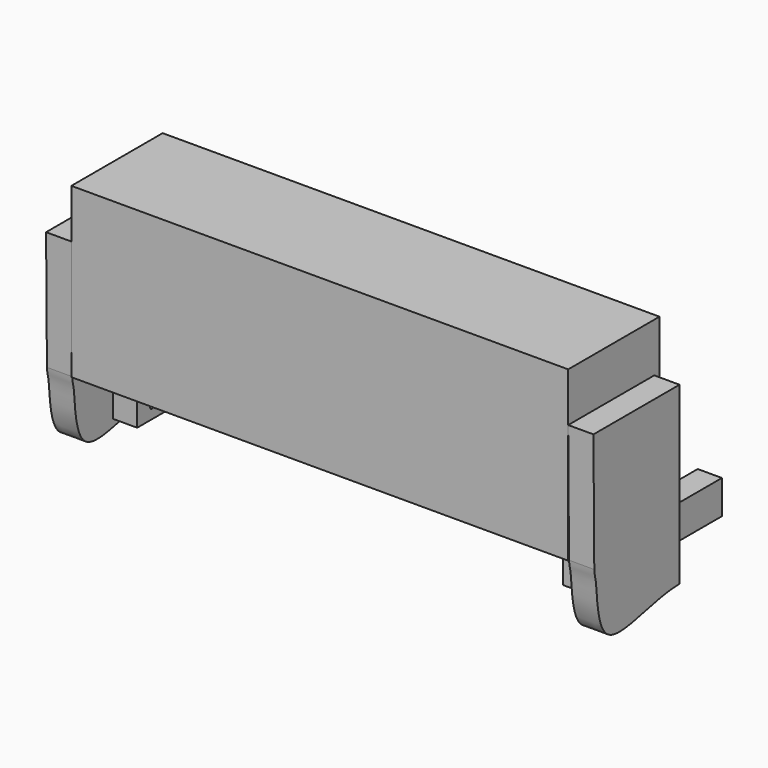
from build123d import *

# Parameters (mm, degrees)
F0_W      = 73.025
F0_H      = 101.6
F1_DEPTH  = 508
F2_R      = 7.62
F3_DEPTH  = 101.601
F4_R      = 7.62
F5_DEPTH  = 1430.3385
F8_DEPTH  = 1498.6
F10_DEPTH = 76.2


with BuildPart() as f1:
    # F0 (on Front) → F1 (new body)
    with BuildSketch(Plane.XZ):
        with Locations((-678.65625, 50.8)):
            Rectangle(F0_W, F0_H)
    extrude(amount=-F1_DEPTH)


with BuildPart() as f1b:
    # F0 (on Front) → F1, piece 2 (new body)
    with BuildSketch(Plane.XZ):
        with Locations((678.65625, 50.8)):
            Rectangle(F0_W, F0_H)
    extrude(amount=-F1_DEPTH)


with BuildPart() as f3_tool:
    # F2 (on face) → F3 (new body, through all)
    with BuildSketch(Plane(origin=(0, 0, 0), x_dir=(1, 0, 0), z_dir=(0, 0, -1))):
        with Locations((-678.65625, -25.4)):
            Circle(F2_R)
        with Locations((-678.65625, -114.3)):
            Circle(F2_R)
        with Locations((-678.65625, -203.2)):
            Circle(F2_R)
        with Locations((678.65625, -25.4)):
            Circle(F2_R)
        with Locations((678.65625, -114.3)):
            Circle(F2_R)
        with Locations((678.65625, -203.2)):
            Circle(F2_R)
    extrude(amount=-F3_DEPTH)


with BuildPart() as f1_1:
    add(f1.part)

    # F3: cut by f3_tool
    add(f3_tool.part, mode=Mode.SUBTRACT)


with BuildPart() as f1b_1:
    add(f1b.part)

    # F3: cut by f3_tool
    add(f3_tool.part, mode=Mode.SUBTRACT)


with BuildPart() as f5_tool:
    # F4 (on face) → F5 (new body, through all)
    with BuildSketch(Plane(origin=(-715.16875, 0, 0), x_dir=(0, -1, 0), z_dir=(-1, 0, 0))):
        with Locations((-114.3, 63.5)):
            Circle(F4_R)
        with Locations((-55.88, 35.56)):
            Circle(F4_R)
        with Locations((-35.56, 63.5)):
            Circle(F4_R)
    extrude(amount=-F5_DEPTH)


with BuildPart() as f1_2:
    add(f1_1.part)

    # F5: cut by f5_tool
    add(f5_tool.part, mode=Mode.SUBTRACT)



with BuildPart() as f1b_2:
    add(f1b_1.part)

    # F5: cut by f5_tool
    add(f5_tool.part, mode=Mode.SUBTRACT)


with BuildPart() as f1_3:
    add(f1_2.part)

    add(f1b_2.part)  # F8 merges F1b
    # F7 (on offset) → F8 (join)
    with BuildSketch(Plane.YZ.offset(749.3)):
        Polygon((-38.1, 107.95), (0, 107.95), (0, 101.6), (229.8964709044, 101.6), (229.8964709044, 654.05), (-114.3, 654.05), (-114.3, 146.05), (-38.1, 146.05), align=None)
    extrude(amount=-F8_DEPTH)

    # F9 (on face) → F10 (join)
    with BuildSketch(Plane.YZ.offset(749.3)):
        Polygon((-114.3, 506.1743855476), (-111.125, 146.05), (-38.1, 146.05), (-38.1, 107.95), (0, 107.95), (0, 101.6), (210.1973444223, 101.6), (210.1973444223, 506.1743855476), align=None)
        with BuildLine():
            Line((-38.1, 146.05), (-111.125, 146.05))
            add(Edge.make_bspline(
                [(-111.125, 146.05), (-110.1389825344, 127.9860138893), (-100.2988577604, 117.881006452), (-101.5214413042, -130.5658881024), (101.1466756463, -23.6625690013), (210.1973444223, -22.5266236812)],
                knots=[0, 0, 0, 0, 0.1758084358, 0.5312599023, 1, 1, 1, 1], degree=3))
            Line((210.1973444223, -22.5266236812), (210.1973444223, 101.6))
            Line((210.1973444223, 101.6), (0, 101.6))
            Line((0, 101.6), (0, 107.95))
            Line((0, 107.95), (-38.1, 107.95))
            Line((-38.1, 107.95), (-38.1, 146.05))
        make_face()
    extrude(amount=F10_DEPTH)

    # F11: F1 across plane


with BuildPart() as f1_4:
    add(f1_3.part)
    add(f1_3.part.mirror(Plane.YZ))


solid = f1_4.part
